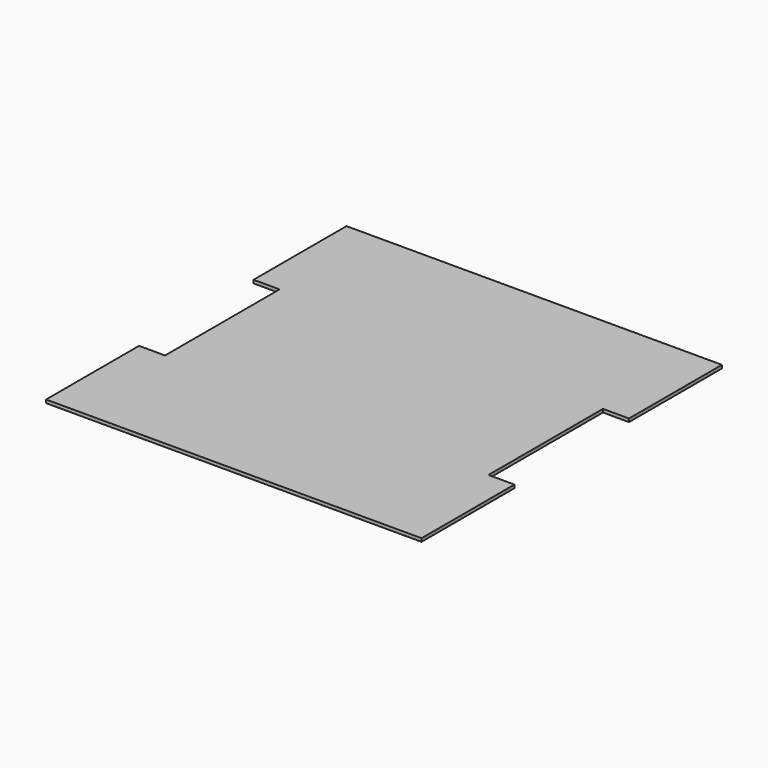
from build123d import *

# Parameters (mm, degrees)
BOX005_W     = 5
BOX005_H     = 22
BOX005_DEPTH = 1.9
BOX004_W     = 5
BOX004_H     = 22
BOX004_DEPTH = 1.9
BOX001_W     = 57.7
BOX001_H     = 57.7
BOX001_DEPTH = 0.5


with BuildPart() as box005:
    # Box005 → Box005 (new body)
    with BuildSketch(Plane(origin=(54.7, 18.85, 1.9), x_dir=(1, 0, 0), z_dir=(0, 0, 1))):
        with Locations((2.5, 11)):
            Rectangle(BOX005_W, BOX005_H)
    extrude(amount=BOX005_DEPTH)


with BuildPart() as box004:
    # Box004 → Box004 (new body)
    with BuildSketch(Plane(origin=(0, 18.85, 1.9), x_dir=(1, 0, 0), z_dir=(0, 0, 1))):
        with Locations((2.5, 11)):
            Rectangle(BOX004_W, BOX004_H)
    extrude(amount=BOX004_DEPTH)


with BuildPart() as layer_inside:
    # Box001 → Box001 (new body)
    with BuildSketch(Plane(origin=(1, 1, 1.9), x_dir=(1, 0, 0), z_dir=(0, 0, 1))):
        with Locations((28.85, 28.85)):
            Rectangle(BOX001_W, BOX001_H)
    extrude(amount=BOX001_DEPTH)

    # Cut003: cut Box004
    add(box004.part, mode=Mode.SUBTRACT)

    # Cut004: cut Box005
    add(box005.part, mode=Mode.SUBTRACT)


solid = layer_inside.part
